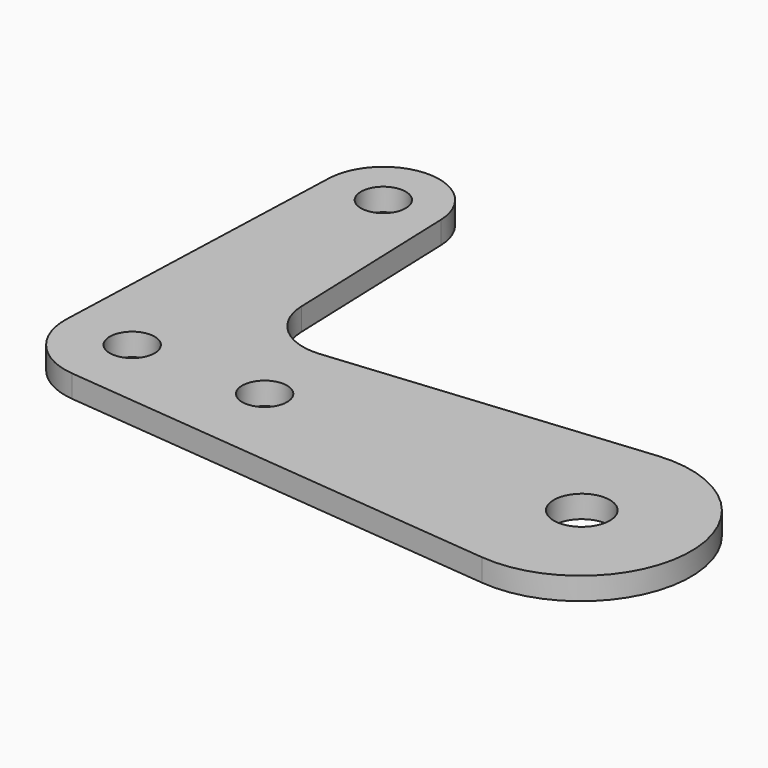
from build123d import *

# Parameters (mm, degrees)
F0_R     = 3.175
F0_R_2   = 3.96875
F1_DEPTH = 3.175
F2_R     = 7.9375


with BuildPart() as f1:
    # F0 (on Top) → F1 (new body)
    with BuildSketch(Plane.XY):
        with BuildLine():
            ThreePointArc((9.5189234458, 0.3401785307), (6.2767940185, 7.1643200549), (-0.9144, 9.481007206))
            ThreePointArc((-0.9144, 9.481007206), (-6.9355783144, 6.5286582423), (-9.5189234444, 0.3401785714))
            ThreePointArc((-9.5189234444, 0.3401785714), (-7.1643200684, -6.2767940031), (-0.9144, -9.481007206))
            ThreePointArc((-0.9144, -9.481007206), (6.4037475356, -7.0510738544), (9.525, 0))
            ThreePointArc((9.525, 0), (9.5234807403, 0.1701163993), (9.5189234458, 0.3401785307))
        make_face()
        Circle(F0_R, mode=Mode.SUBTRACT)
        with BuildLine():
            Line((9.157542126, 10.4524001899), (-0.9144, 9.481007206))
            ThreePointArc((-0.9144, 9.481007206), (6.2767940185, 7.1643200549), (9.5189234458, 0.3401785307))
            Line((9.5189234458, 0.3401785307), (9.157542126, 10.4524001899))
        make_face()
        with BuildLine():
            ThreePointArc((-9.5189234444, 0.3401785714), (-6.9355783144, 6.5286582423), (-0.9144, 9.481007206))
            Line((-0.9144, 9.481007206), (9.157542126, 10.4524001899))
            Line((9.157542126, 10.4524001899), (7.9324362036, 44.7334821429))
            ThreePointArc((7.9324362036, 44.7334821429), (7.9362339499, 44.5917636831), (7.9375, 44.45))
            ThreePointArc((7.9375, 44.45), (-0.1417636831, 36.5137660501), (-7.9324362036, 44.7334821429))
            Line((-7.9324362036, 44.7334821429), (-9.5189234444, 0.3401785714))
        make_face()
        with BuildLine():
            Line((9.157542126, 10.4524001899), (9.5189234458, 0.3401785307))
            ThreePointArc((9.5189234458, 0.3401785307), (9.5234807403, 0.1701163993), (9.525, 0))
            ThreePointArc((9.525, 0), (6.4037475356, -7.0510738544), (-0.9144, -9.481007206))
            Line((-0.9144, -9.481007206), (62.000384, -15.5488518178))
            ThreePointArc((62.000384, -15.5488518178), (47.879, 0), (62.000384, 15.5488518178))
            Line((62.000384, 15.5488518178), (9.157542126, 10.4524001899))
        make_face()
        with Locations((18.7505278736, 0)):
            Circle(F0_R, mode=Mode.SUBTRACT)
        with BuildLine():
            ThreePointArc((7.9324362036, 44.7334821429), (0, 52.3875), (-7.9324362036, 44.7334821429))
            ThreePointArc((-7.9324362036, 44.7334821429), (-0.1417636831, 36.5137660501), (7.9375, 44.45))
            ThreePointArc((7.9375, 44.45), (7.9362339499, 44.5917636831), (7.9324362036, 44.7334821429))
        make_face()
        with Locations((0, 44.45)):
            Circle(F0_R, mode=Mode.SUBTRACT)
        with BuildLine():
            ThreePointArc((79.121, 0), (74.0021459584, 11.5637611212), (62.000384, 15.5488518178))
            ThreePointArc((62.000384, 15.5488518178), (47.879, 0), (62.000384, -15.5488518178))
            ThreePointArc((62.000384, -15.5488518178), (74.0021459584, -11.5637611212), (79.121, 0))
        make_face()
        with Locations((63.5601431131, 0.1291059743)):
            Circle(F0_R_2, mode=Mode.SUBTRACT)
    extrude(amount=F1_DEPTH)

    # F2
    f2_edges = [f1.edges().sort_by_distance(p)[0] for p in [
        (9.157542, 10.4524, 1.5875),
    ]]
    fillet(f2_edges, radius=F2_R)


solid = f1.part
